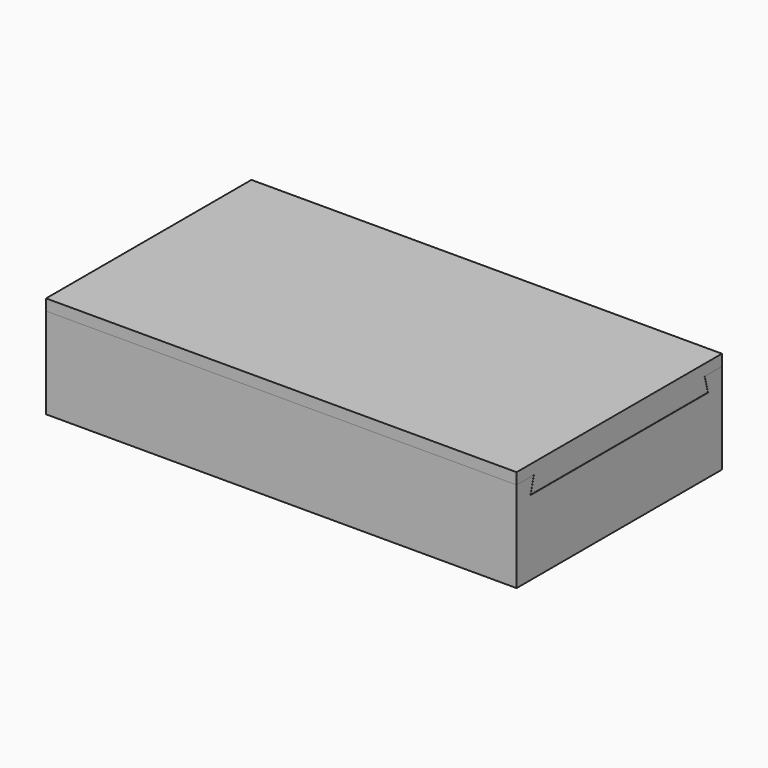
from build123d import *

# Parameters (mm, degrees)
F0_W     = 279.4
F0_H     = 152.4
F1_DEPTH = 53.975
F3_DEPTH = 279.401
F5_DEPTH = 39.37
F7_DEPTH = 279.4


with BuildPart() as f1:
    # F0 (on Top) → F1 (new body)
    with BuildSketch(Plane.XY):
        Rectangle(F0_W, F0_H)
    extrude(amount=F1_DEPTH)

    # F2 (on face) → F3 (cut, through all)
    with BuildSketch(Plane.YZ.offset(139.7)):
        Polygon((-63.5, 53.975), (-65.874849, 44.45), (65.874849, 44.45), (63.5, 53.975), align=None)
    extrude(amount=-F3_DEPTH, mode=Mode.SUBTRACT)

    # F4 (on face) → F5 (cut)
    with BuildSketch(Plane.XY.offset(44.45)):
        with BuildLine():
            Line((-129.701277, -57.15), (-86.198723, -57.15))
            Line((-86.198723, -57.15), (-86.198723, 4.291641))
            ThreePointArc((-86.198723, 4.291641), (-86.413631, 6.303558), (-87.048657, 8.224688))
            Line((-87.048657, 8.224688), (-89.955066, 14.635312))
            ThreePointArc((-89.955066, 14.635312), (-90.590092, 16.556442), (-90.805, 18.568359))
            Line((-90.805, 18.568359), (-90.805, 44.45))
            Line((-90.805, 44.45), (-95.25, 44.45))
            ThreePointArc((-95.25, 44.45), (-107.95, 57.15), (-120.65, 44.45))
            Line((-120.65, 44.45), (-125.095, 44.45))
            Line((-125.095, 44.45), (-125.095, 18.568359))
            ThreePointArc((-125.095, 18.568359), (-125.309908, 16.556442), (-125.944934, 14.635312))
            Line((-125.944934, 14.635312), (-128.851343, 8.224688))
            ThreePointArc((-128.851343, 8.224688), (-129.486369, 6.303558), (-129.701277, 4.291641))
            Line((-129.701277, 4.291641), (-129.701277, -57.15))
        make_face()
        with BuildLine():
            Line((-36.83, 18.568359), (-36.83, 44.45))
            Line((-36.83, 44.45), (-41.275, 44.45))
            ThreePointArc((-41.275, 44.45), (-53.975, 57.15), (-66.675, 44.45))
            Line((-66.675, 44.45), (-71.12, 44.45))
            Line((-71.12, 44.45), (-71.12, 18.568359))
            ThreePointArc((-71.12, 18.568359), (-71.334908, 16.556442), (-71.969934, 14.635312))
            Line((-71.969934, 14.635312), (-74.876343, 8.224688))
            ThreePointArc((-74.876343, 8.224688), (-75.511369, 6.303558), (-75.726277, 4.291641))
            Line((-75.726277, 4.291641), (-75.726277, -57.15))
            Line((-75.726277, -57.15), (-32.223723, -57.15))
            Line((-32.223723, -57.15), (-32.223723, 4.291641))
            ThreePointArc((-32.223723, 4.291641), (-32.438631, 6.303558), (-33.073657, 8.224688))
            Line((-33.073657, 8.224688), (-35.980066, 14.635312))
            ThreePointArc((-35.980066, 14.635312), (-36.615092, 16.556442), (-36.83, 18.568359))
        make_face()
        with BuildLine():
            Line((17.145, 18.568359), (17.145, 44.45))
            Line((17.145, 44.45), (12.7, 44.45))
            ThreePointArc((12.7, 44.45), (0, 57.15), (-12.7, 44.45))
            Line((-12.7, 44.45), (-17.145, 44.45))
            Line((-17.145, 44.45), (-17.145, 18.568359))
            ThreePointArc((-17.145, 18.568359), (-17.359908, 16.556442), (-17.994934, 14.635312))
            Line((-17.994934, 14.635312), (-20.901343, 8.224688))
            ThreePointArc((-20.901343, 8.224688), (-21.536369, 6.303558), (-21.751277, 4.291641))
            Line((-21.751277, 4.291641), (-21.751277, -57.15))
            Line((-21.751277, -57.15), (21.751277, -57.15))
            Line((21.751277, -57.15), (21.751277, 4.291641))
            ThreePointArc((21.751277, 4.291641), (21.536369, 6.303558), (20.901343, 8.224688))
            Line((20.901343, 8.224688), (17.994934, 14.635312))
            ThreePointArc((17.994934, 14.635312), (17.359908, 16.556442), (17.145, 18.568359))
        make_face()
        with BuildLine():
            Line((71.12, 18.568359), (71.12, 44.45))
            Line((71.12, 44.45), (66.675, 44.45))
            ThreePointArc((66.675, 44.45), (53.975, 57.15), (41.275, 44.45))
            Line((41.275, 44.45), (36.83, 44.45))
            Line((36.83, 44.45), (36.83, 18.568359))
            ThreePointArc((36.83, 18.568359), (36.615092, 16.556442), (35.980066, 14.635312))
            Line((35.980066, 14.635312), (33.073657, 8.224688))
            ThreePointArc((33.073657, 8.224688), (32.438631, 6.303558), (32.223723, 4.291641))
            Line((32.223723, 4.291641), (32.223723, -57.15))
            Line((32.223723, -57.15), (75.726277, -57.15))
            Line((75.726277, -57.15), (75.726277, 4.291641))
            ThreePointArc((75.726277, 4.291641), (75.511369, 6.303558), (74.876343, 8.224688))
            Line((74.876343, 8.224688), (71.969934, 14.635312))
            ThreePointArc((71.969934, 14.635312), (71.334908, 16.556442), (71.12, 18.568359))
        make_face()
        with BuildLine():
            Line((125.095, 18.568359), (125.095, 44.45))
            Line((125.095, 44.45), (120.65, 44.45))
            ThreePointArc((120.65, 44.45), (107.95, 57.15), (95.25, 44.45))
            Line((95.25, 44.45), (90.805, 44.45))
            Line((90.805, 44.45), (90.805, 18.568359))
            ThreePointArc((90.805, 18.568359), (90.590092, 16.556442), (89.955066, 14.635312))
            Line((89.955066, 14.635312), (87.048657, 8.224688))
            ThreePointArc((87.048657, 8.224688), (86.413631, 6.303558), (86.198723, 4.291641))
            Line((86.198723, 4.291641), (86.198723, -57.15))
            Line((86.198723, -57.15), (129.701277, -57.15))
            Line((129.701277, -57.15), (129.701277, 4.291641))
            ThreePointArc((129.701277, 4.291641), (129.486369, 6.303558), (128.851343, 8.224688))
            Line((128.851343, 8.224688), (125.944934, 14.635312))
            ThreePointArc((125.944934, 14.635312), (125.309908, 16.556442), (125.095, 18.568359))
        make_face()
    extrude(amount=-F5_DEPTH, mode=Mode.SUBTRACT)


with BuildPart() as f7:
    # F6 (on face) → F7 (new body, through all)
    with BuildSketch(Plane.YZ.offset(139.7)):
        Polygon((-76.2, 60.620756), (-76.2, 53.975), (-63.5, 53.975), (-63.369112, 53.975), (-65.712297, 44.577), (65.712297, 44.577), (63.369112, 53.975), (63.5, 53.975), (76.2, 53.975), (76.2, 60.620756), align=None)
    extrude(amount=-F7_DEPTH)


solid = Compound([f1.part, f7.part])
